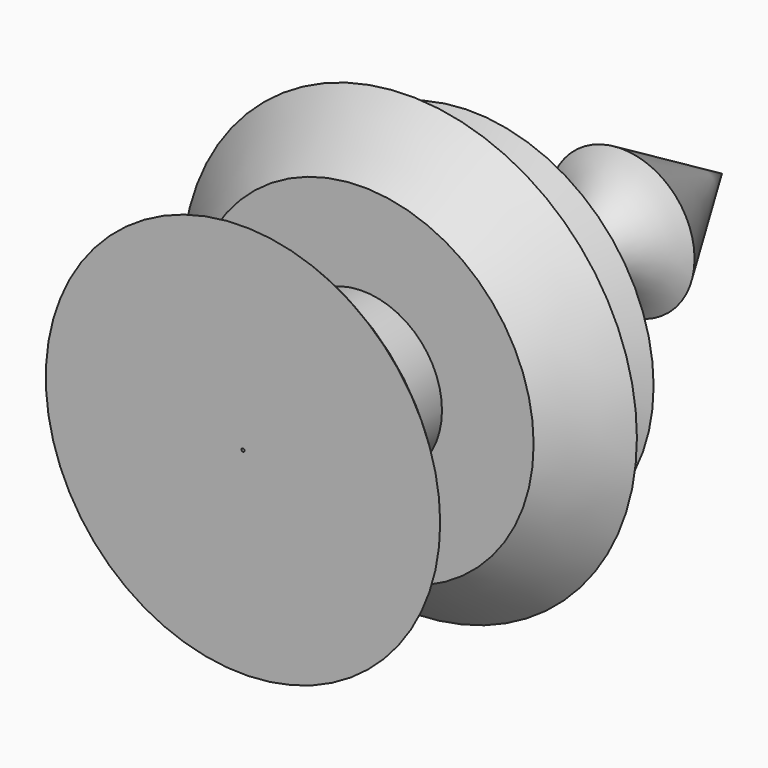
from build123d import *


with BuildPart() as f1:
    # F0 (on Top) → F1 (revolve)
    with BuildSketch(Plane.XY):
        with BuildLine():
            Line((11.458813, 46.930371), (-0.244609, 67.031535))
            Line((-0.244609, 67.031535), (-0.244609, 20.647742))
            Line((-0.244609, 20.647742), (4.516693, 20.647742))
            Line((4.516693, 20.647742), (4.516693, -20.192879))
            Line((4.516693, -20.192879), (12.459272, -20.192879))
            Line((12.459272, -20.192879), (12.459272, -4.814634))
            Line((12.459272, -4.814634), (27.12154, -4.814634))
            Line((27.12154, -4.814634), (36.102078, 4.604435))
            Line((36.102078, 4.604435), (7.908328, 4.604435))
            Line((7.908328, 4.604435), (28.964354, 16.863803))
            Line((28.964354, 16.863803), (14.195322, 20.647742))
            ThreePointArc((14.195322, 20.647742), (3.67909, 32.836583), (11.458813, 46.930371))
        make_face()
        with BuildLine():
            Line((12.459272, -20.192879), (4.516693, -20.192879))
            Line((4.516693, -20.192879), (0, -20.192879))
            Line((0, -20.192879), (0, -28.713265))
            Line((0, -28.713265), (31.294234, -28.713265))
            ThreePointArc((31.294234, -28.713265), (22.795528, -22.422049), (12.459272, -20.192879))
        make_face()
    revolve(axis=Axis((-0.244609, 43.839638, 0), (0, -1, 0)))


solid = f1.part
